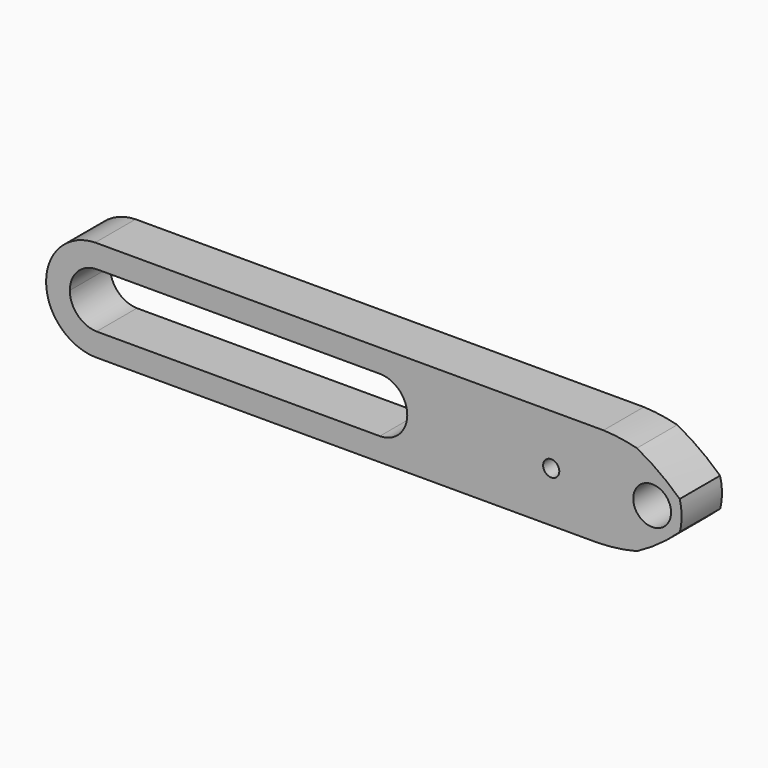
from build123d import *

# Parameters (mm, degrees)
F0_R     = 1.5875
F0_R_2   = 1.190625
F1_DEPTH = 3.175
F3_DEPTH = 25.4
F4_DEPTH = 25.4
F5_DEPTH = 25.4
F6_DEPTH = 25.4
F8_DEPTH = 25.4
F9_DEPTH = 21.59
F11_D    = 1.016


with BuildPart() as f1:
    # F0 (on Front) → F1 (new body)
    with BuildSketch(Plane.XZ):
        with BuildLine():
            Line((-59.9854774773, 36.1856259406), (-16.1655526608, 36.1856259406))
            Line((-16.1655526608, 36.1856259406), (-14.5380130693, 39.3606259406))
            Line((-14.5380130693, 39.3606259406), (-16.1655526608, 42.5356259406))
            Line((-16.1655526608, 42.5356259406), (-59.9854774773, 42.5356259406))
            ThreePointArc((-59.9854774773, 42.5356259406), (-63.0682841445, 39.3606259406), (-59.9854774773, 36.1856259406))
        make_face()
        with Locations((-17.3478871584, 39.3606259406)):
            Circle(F0_R, mode=Mode.SUBTRACT)
        with Locations((-17.3478871584, 39.3606259406)):
            Circle(F0_R)
        with Locations((-17.3478871584, 39.3606259406)):
            Circle(F0_R_2, mode=Mode.SUBTRACT)
    extrude(amount=F1_DEPTH)

    # F2 (on face) → F3 (cut)
    with BuildSketch(Plane.XZ.offset(3.175)):
        with BuildLine():
            ThreePointArc((-15.3748723059, 37.758994363), (-16.1969030784, 36.7786361584), (-17.3305589706, 36.1856259406))
            Line((-17.3305589706, 36.1856259406), (-16.1655526608, 36.1856259406))
            Line((-16.1655526608, 36.1856259406), (-15.3517828651, 37.7731259406))
            ThreePointArc((-15.3517828651, 37.7731259406), (-15.3633231409, 37.7660528898), (-15.3748723059, 37.758994363))
        make_face()
        with BuildLine():
            ThreePointArc((-15.404339903, 40.9815081352), (-14.9683940419, 39.3741029339), (-15.3748723059, 37.758994363))
            ThreePointArc((-15.3748723059, 37.758994363), (-15.3633231409, 37.7660528898), (-15.3517828651, 37.7731259406))
            Line((-15.3517828651, 37.7731259406), (-14.5380130693, 39.3606259406))
            Line((-14.5380130693, 39.3606259406), (-15.3517828651, 40.9481259406))
            ThreePointArc((-15.3517828651, 40.9481259406), (-15.3780357265, 40.9648574331), (-15.404339903, 40.9815081352))
        make_face()
        with BuildLine():
            ThreePointArc((-17.4520071596, 42.5356259406), (-16.2702339986, 41.9666642674), (-15.404339903, 40.9815081352))
            ThreePointArc((-15.404339903, 40.9815081352), (-15.3780357265, 40.9648574331), (-15.3517828651, 40.9481259406))
            Line((-15.3517828651, 40.9481259406), (-16.1655526608, 42.5356259406))
            Line((-16.1655526608, 42.5356259406), (-17.4520071596, 42.5356259406))
        make_face()
    extrude(amount=-F3_DEPTH, mode=Mode.SUBTRACT)

    # F2 (on face) → F4 (cut)
    with BuildSketch(Plane.XZ.offset(3.175)):
        with BuildLine():
            ThreePointArc((-20.4132606166, 42.5356259406), (-17.8064403349, 42.0884730118), (-15.404339903, 40.9815081352))
            ThreePointArc((-15.404339903, 40.9815081352), (-16.2702339986, 41.9666642674), (-17.4520071596, 42.5356259406))
            Line((-17.4520071596, 42.5356259406), (-20.4132606166, 42.5356259406))
        make_face()
        with BuildLine():
            ThreePointArc((-15.404339903, 40.9815081352), (-14.9683940419, 39.3741029339), (-15.3748723059, 37.758994363))
            ThreePointArc((-15.3748723059, 37.758994363), (-15.3633231409, 37.7660528898), (-15.3517828651, 37.7731259406))
            Line((-15.3517828651, 37.7731259406), (-14.5380130693, 39.3606259406))
            Line((-14.5380130693, 39.3606259406), (-15.3517828651, 40.9481259406))
            ThreePointArc((-15.3517828651, 40.9481259406), (-15.3780357265, 40.9648574331), (-15.404339903, 40.9815081352))
        make_face()
        with BuildLine():
            Line((-20.778906084, 36.1856259406), (-17.3305589706, 36.1856259406))
            ThreePointArc((-17.3305589706, 36.1856259406), (-16.1969030784, 36.7786361584), (-15.3748723059, 37.758994363))
            ThreePointArc((-15.3748723059, 37.758994363), (-17.9721795073, 36.6126647687), (-20.778906084, 36.1856259406))
        make_face()
    extrude(amount=-F4_DEPTH, mode=Mode.SUBTRACT)

    # F2 (on face) → F5 (cut)
    with BuildSketch(Plane.XZ.offset(3.175)):
        with BuildLine():
            Line((-59.9854774773, 36.1856259406), (-52.4438694119, 36.1856259406))
            ThreePointArc((-52.4438694119, 36.1856259406), (-53.8950663244, 36.5980321526), (-54.9923407048, 37.6334259406))
            Line((-54.9923407048, 37.6334259406), (-59.8919055938, 37.6334259406))
            ThreePointArc((-59.8919055938, 37.6334259406), (-61.6191055938, 39.3606259406), (-59.8919055938, 41.0878259406))
            Line((-59.8919055938, 41.0878259406), (-54.9915987334, 41.0878259406))
            ThreePointArc((-54.9915987334, 41.0878259406), (-53.878578845, 42.1313762088), (-52.4073913693, 42.5356259406))
            Line((-52.4073913693, 42.5356259406), (-59.9854774773, 42.5356259406))
            ThreePointArc((-59.9854774773, 42.5356259406), (-63.0682841445, 39.3606259406), (-59.9854774773, 36.1856259406))
        make_face()
        with BuildLine():
            Line((-58.1647055938, 39.3606259406), (-55.5025643281, 39.3606259406))
            ThreePointArc((-55.5025643281, 39.3606259406), (-55.372064535, 40.261200243), (-54.9915987334, 41.0878259406))
            Line((-54.9915987334, 41.0878259406), (-59.8919055938, 41.0878259406))
            ThreePointArc((-59.8919055938, 41.0878259406), (-58.6705907614, 40.581940773), (-58.1647055938, 39.3606259406))
        make_face()
        with BuildLine():
            Line((-59.8919055938, 37.6334259406), (-54.9923407048, 37.6334259406))
            ThreePointArc((-54.9923407048, 37.6334259406), (-55.3724203009, 38.4601098244), (-55.5025643281, 39.3606259406))
            Line((-55.5025643281, 39.3606259406), (-58.1647055938, 39.3606259406))
            ThreePointArc((-58.1647055938, 39.3606259406), (-58.6705907614, 38.1393111081), (-59.8919055938, 37.6334259406))
        make_face()
        with BuildLine():
            ThreePointArc((-59.8919055938, 41.0878259406), (-61.6191055938, 39.3606259406), (-59.8919055938, 37.6334259406))
            ThreePointArc((-59.8919055938, 37.6334259406), (-58.6705907614, 38.1393111081), (-58.1647055938, 39.3606259406))
            ThreePointArc((-58.1647055938, 39.3606259406), (-58.6705907614, 40.581940773), (-59.8919055938, 41.0878259406))
        make_face()
    extrude(amount=-F5_DEPTH, mode=Mode.SUBTRACT)

    # F2 (on face) → F6 (cut)
    with BuildSketch(Plane.XZ.offset(3.175)):
        with BuildLine():
            ThreePointArc((-52.2927604616, 41.0878259406), (-53.5069291888, 40.578005841), (-54.0090331721, 39.3606259406))
            Line((-54.0090331721, 39.3606259406), (-36.2191055938, 39.3606259406))
            ThreePointArc((-36.2191055938, 39.3606259406), (-35.7132204263, 40.581940773), (-34.4919055938, 41.0878259406))
            Line((-34.4919055938, 41.0878259406), (-52.2927604616, 41.0878259406))
        make_face()
        with BuildLine():
            ThreePointArc((-54.0090331721, 39.3606259406), (-53.5187568392, 38.1547311322), (-52.3259475214, 37.6334259406))
            Line((-52.3259475214, 37.6334259406), (-34.4919055938, 37.6334259406))
            ThreePointArc((-34.4919055938, 37.6334259406), (-35.7132204263, 38.1393111081), (-36.2191055938, 39.3606259406))
            Line((-36.2191055938, 39.3606259406), (-54.0090331721, 39.3606259406))
        make_face()
        with BuildLine():
            ThreePointArc((-34.4919055938, 41.0878259406), (-35.7132204263, 40.581940773), (-36.2191055938, 39.3606259406))
            Line((-36.2191055938, 39.3606259406), (-34.4919055938, 39.3606259406))
            Line((-34.4919055938, 39.3606259406), (-34.4919055938, 41.0878259406))
        make_face()
        with BuildLine():
            ThreePointArc((-36.2191055938, 39.3606259406), (-35.7132204263, 38.1393111081), (-34.4919055938, 37.6334259406))
            Line((-34.4919055938, 37.6334259406), (-34.4919055938, 39.3606259406))
            Line((-34.4919055938, 39.3606259406), (-36.2191055938, 39.3606259406))
        make_face()
        with BuildLine():
            Line((-34.4919055938, 39.3606259406), (-34.4919055938, 37.6334259406))
            ThreePointArc((-34.4919055938, 37.6334259406), (-33.2705907614, 38.1393111081), (-32.7647055938, 39.3606259406))
            ThreePointArc((-32.7647055938, 39.3606259406), (-33.2705907614, 40.581940773), (-34.4919055938, 41.0878259406))
            Line((-34.4919055938, 41.0878259406), (-34.4919055938, 39.3606259406))
        make_face()
    extrude(amount=-F6_DEPTH, mode=Mode.SUBTRACT)

    # F7 (on face) → F8 (cut)
    with BuildSketch(Plane.XZ.offset(3.175)):
        with BuildLine():
            ThreePointArc((-15.6042189064, 38.4623412006), (-15.8016195139, 37.8900751539), (-16.0912083493, 37.3584796926))
            ThreePointArc((-16.0912083493, 37.3584796926), (-15.7292199643, 37.5519041597), (-15.3748723059, 37.758994363))
            ThreePointArc((-15.3748723059, 37.758994363), (-15.1042820518, 38.4073926685), (-14.9774259999, 39.0984404167))
            ThreePointArc((-14.9774259999, 39.0984404167), (-15.285118653, 38.7747704567), (-15.6042189064, 38.4623412006))
        make_face()
        with BuildLine():
            ThreePointArc((-15.6138083064, 40.2906739685), (-15.4922450078, 39.3771200227), (-15.6042189064, 38.4623412006))
            ThreePointArc((-15.6042189064, 38.4623412006), (-15.285118653, 38.7747704567), (-14.9774259999, 39.0984404167))
            ThreePointArc((-14.9774259999, 39.0984404167), (-14.9684104497, 39.3758467508), (-14.9827910636, 39.6530267506))
            ThreePointArc((-14.9827910636, 39.6530267506), (-15.2926534564, 39.9774378811), (-15.6138083064, 40.2906739685))
        make_face()
        with BuildLine():
            ThreePointArc((-16.1121669082, 41.3890946918), (-15.8171331409, 40.8606887152), (-15.6138083064, 40.2906739685))
            ThreePointArc((-15.6138083064, 40.2906739685), (-15.2926534564, 39.9774378811), (-14.9827910636, 39.6530267506))
            ThreePointArc((-14.9827910636, 39.6530267506), (-15.1224646144, 40.3398289098), (-15.404339903, 40.9815081352))
            ThreePointArc((-15.404339903, 40.9815081352), (-15.7541421045, 41.1924412219), (-16.1121669082, 41.3890946918))
        make_face()
    extrude(amount=-F8_DEPTH, mode=Mode.SUBTRACT)

    # F7 (on face) → F9 (cut)
    with BuildSketch(Plane.XZ.offset(3.175)):
        with BuildLine():
            ThreePointArc((-18.3094374963, 42.23041588), (-16.8977827327, 41.3492626146), (-15.6138083064, 40.2906739685))
            ThreePointArc((-15.6138083064, 40.2906739685), (-15.8171331409, 40.8606887152), (-16.1121669082, 41.3890946918))
            ThreePointArc((-16.1121669082, 41.3890946918), (-17.1862834694, 41.8737906284), (-18.3094374963, 42.23041588))
        make_face()
        with BuildLine():
            ThreePointArc((-18.3068840907, 36.5210452642), (-17.1759299722, 36.8786017382), (-16.0912083493, 37.3584796926))
            ThreePointArc((-16.0912083493, 37.3584796926), (-15.8016195139, 37.8900751539), (-15.6042189064, 38.4623412006))
            ThreePointArc((-15.6042189064, 38.4623412006), (-16.8904167196, 37.4010128286), (-18.3068840907, 36.5210452642))
        make_face()
    extrude(amount=-F9_DEPTH, mode=Mode.SUBTRACT)

    # F11 (through all)
    with Locations(Plane(origin=(0, 0, 0), x_dir=(1, 0, 0), z_dir=(0, 1, 0))):
        with Locations((-23.7026810646, -39.3577963114)):
            Hole(F11_D / 2)


solid = f1.part
